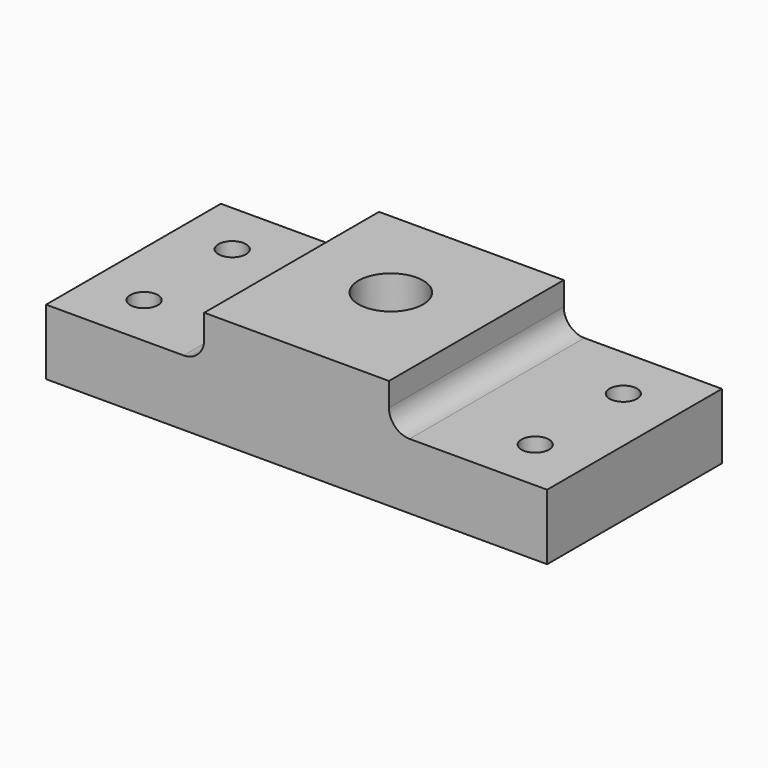
from build123d import *

# Parameters (mm, degrees)
F0_W      = 144.4625
F0_H      = 31.6992
F1_DEPTH  = 62.992
F2_W      = 45.60062
F2_H      = 12.7762
F3_DEPTH  = 62.993
F4_R      = 5.95376
F5_R      = 9.3091
F6_DEPTH  = 31.7002
F7_R      = 3.96875
F7_R_2    = 3.9751
F8_DEPTH  = 18.924
F9_R      = 3.96875
F10_DEPTH = 18.924


with BuildPart() as f1:
    # F0 (on Front) → F1 (new body)
    with BuildSketch(Plane.XZ):
        Rectangle(F0_W, F0_H)
    extrude(amount=F1_DEPTH)

    # F2 (on face) → F3 (cut, through all)
    with BuildSketch(Plane.XZ.offset(62.992)):
        with Locations((-49.43094, 9.4615)):
            Rectangle(F2_W, F2_H)
        with Locations((49.43094, 9.4615)):
            Rectangle(F2_W, F2_H)
    extrude(amount=-F3_DEPTH, mode=Mode.SUBTRACT)

    # F4
    f4_edges = [f1.edges().sort_by_distance(p)[0] for p in [
        (-26.63063, -31.496, 3.0734),
        (26.63063, -31.496, 3.0734),
    ]]
    fillet(f4_edges, radius=F4_R)

    # F5 (on face) → F6 (cut, through all)
    with BuildSketch(Plane.XY.offset(15.8496)):
        with Locations((0, -29.0322)):
            Circle(F5_R)
    extrude(amount=-F6_DEPTH, mode=Mode.SUBTRACT)

    # F7 (on face) → F8 (cut, through all)
    with BuildSketch(Plane.XY.offset(3.0734)):
        with Locations((-56.38165, -15.7226)):
            Circle(F7_R)
        with Locations((-56.38165, -47.4726)):
            Circle(F7_R_2)
    extrude(amount=-F8_DEPTH, mode=Mode.SUBTRACT)

    # F9 (on face) → F10 (cut, through all)
    with BuildSketch(Plane.XY.offset(3.0734)):
        with Locations((56.38165, -15.7226)):
            Circle(F9_R)
        with Locations((56.38165, -47.4726)):
            Circle(F9_R)
    extrude(amount=-F10_DEPTH, mode=Mode.SUBTRACT)


solid = f1.part
